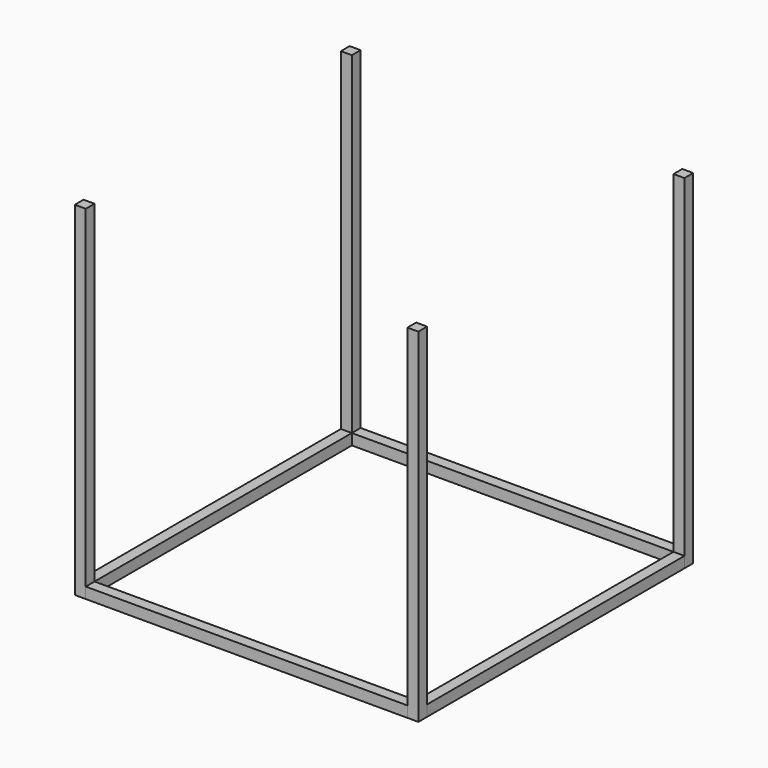
from build123d import *

# Parameters (mm, degrees)
F0_W     = 3.81
F0_H     = 111.76
F0_W_2   = 111.76
F0_H_2   = 3.81
F1_DEPTH = 3.81
F2_DEPTH = 119.38


with BuildPart() as f1:
    # F0 (on Top) → F1 (new body)
    with BuildSketch(Plane.XY):
        with Locations((-53.256131, 0.375275)):
            Rectangle(F0_W, F0_H)
        with Locations((4.528869, 58.160275)):
            Rectangle(F0_W_2, F0_H_2)
        with Locations((62.313869, 0.375275)):
            Rectangle(F0_W, F0_H)
        with Locations((4.528869, -57.409725)):
            Rectangle(F0_W_2, F0_H_2)
    extrude(amount=F1_DEPTH)


with BuildPart() as f2:
    # F0 (on Top) → F2 (new body)
    with BuildSketch(Plane.XY):
        with Locations((-53.256131, -57.409725)):
            Rectangle(F0_W, F0_H_2)
        with Locations((62.313869, -57.409725)):
            Rectangle(F0_W, F0_H_2)
        with Locations((62.313869, 58.160275)):
            Rectangle(F0_W, F0_H_2)
        with Locations((-53.256131, 58.160275)):
            Rectangle(F0_W, F0_H_2)
    extrude(amount=F2_DEPTH)


solid = Compound([f1.part, f2.part])
